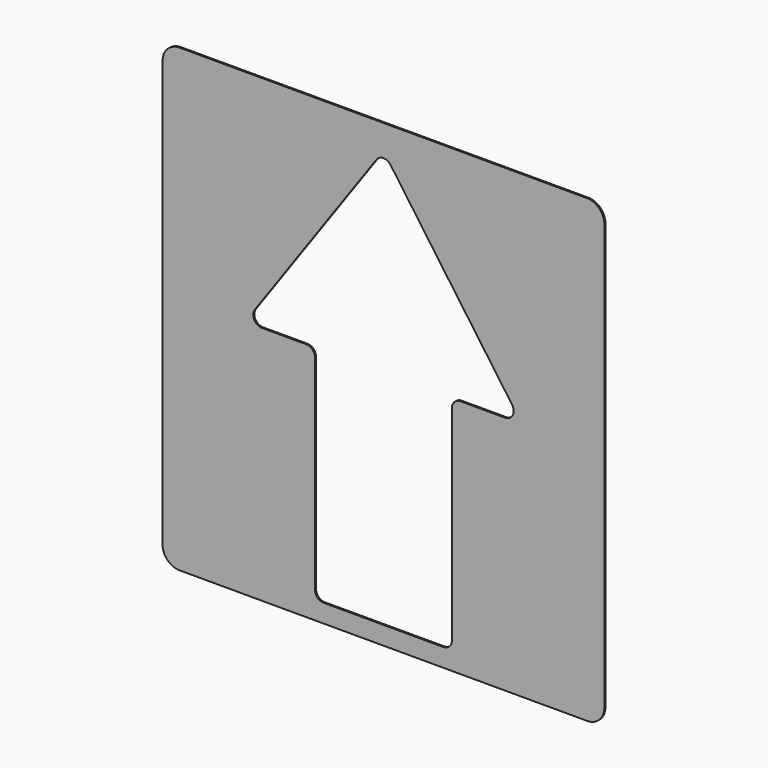
from build123d import *

# Parameters (mm, degrees)
F0_W     = 128.999456
F0_H     = 134.383812
F1_DEPTH = 0.4
F2_R     = 5


with BuildPart() as f1:
    # F0 (on Front) → F1 (new body)
    with BuildSketch(Plane.XZ):
        Rectangle(F0_W, F0_H)
        with BuildLine():
            Line((17.46, -61.855495), (0, -61.855495))
            Line((0, -61.855495), (-17.46, -61.855495))
            ThreePointArc((-17.46, -61.855495), (-19.256051, -61.111547), (-20, -59.315495))
            Line((-20, -59.315495), (-20, 0.418954))
            ThreePointArc((-20, 0.418954), (-20.743949, 2.215005), (-22.54, 2.958954))
            Line((-22.54, 2.958954), (-35.495363, 2.958954))
            ThreePointArc((-35.495363, 2.958954), (-37.751578, 4.332294), (-37.567989, 6.967226))
            Line((-37.567989, 6.967226), (-2.072625, 57.072777))
            ThreePointArc((-2.072625, 57.072777), (0, 58.144505), (2.072625, 57.072777))
            Line((2.072625, 57.072777), (37.567989, 6.967226))
            ThreePointArc((37.567989, 6.967226), (37.751578, 4.332294), (35.495363, 2.958954))
            Line((35.495363, 2.958954), (22.54, 2.958954))
            ThreePointArc((22.54, 2.958954), (20.743949, 2.215005), (20, 0.418954))
            Line((20, 0.418954), (20, -59.315495))
            ThreePointArc((20, -59.315495), (19.256051, -61.111547), (17.46, -61.855495))
        make_face(mode=Mode.SUBTRACT)
    extrude(amount=F1_DEPTH)

    # F2
    f2_edges = [f1.edges().sort_by_distance(p)[0] for p in [
        (-64.499728, -0.2, 67.191906),
        (64.499728, -0.2, 67.191906),
        (64.499728, -0.2, -67.191906),
        (-64.499728, -0.2, -67.191906),
    ]]
    fillet(f2_edges, radius=F2_R)


solid = f1.part
